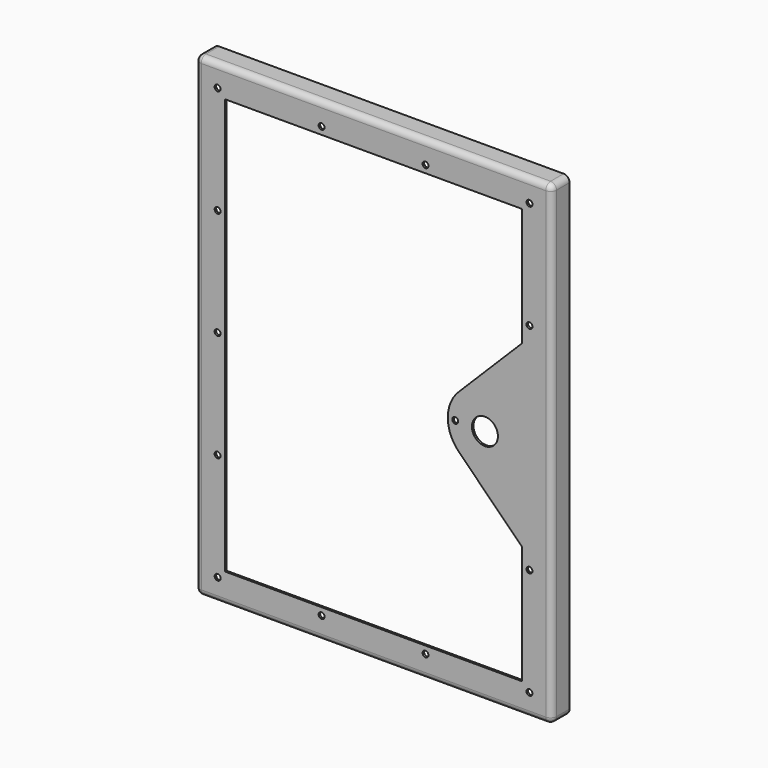
from build123d import *

# Parameters (mm, degrees)
F0_W     = 304.8
F0_H     = 406.4
F0_R     = 11.1125
F1_DEPTH = 1.651
F2_W     = 304.8
F2_H     = 406.4
F2_W_2   = 301.498
F2_H_2   = 403.098
F3_DEPTH = 19.05
F4_R     = 5.08
F5_R     = 5.08
F6_R     = 2.54
F7_DEPTH = 25.4


with BuildPart() as f1:
    # F0 (on Front) → F1 (new body)
    with BuildSketch(Plane.XZ):
        Rectangle(F0_W, F0_H)
        with BuildLine():
            Line((-127, 177.8), (127, 177.8))
            Line((127, 177.8), (127, 76.651281))
            Line((127, 76.651281), (72.79936, 22.45064))
            ThreePointArc((72.79936, 22.45064), (63.5, 0), (72.79936, -22.45064))
            Line((72.79936, -22.45064), (127, -76.651281))
            Line((127, -76.651281), (127, -177.8))
            Line((127, -177.8), (-127, -177.8))
            Line((-127, -177.8), (-127, 177.8))
        make_face(mode=Mode.SUBTRACT)
        with Locations((95.25, 0)):
            Circle(F0_R, mode=Mode.SUBTRACT)
    extrude(amount=F1_DEPTH)

    # F2 (on face) → F3 (join)
    with BuildSketch(Plane.XZ.offset(1.651)):
        Rectangle(F2_W, F2_H)
        Rectangle(F2_W_2, F2_H_2, mode=Mode.SUBTRACT)
    extrude(amount=-F3_DEPTH)

    # F4
    f4_edges = [f1.edges().sort_by_distance(p)[0] for p in [
        (-150.749, 0, 0),
        (0, 0, 201.549),
        (150.749, 0, 0),
        (0, 0, -201.549),
        (-150.749, 8.6995, -201.549),
        (-150.749, 8.6995, 201.549),
        (150.749, 8.6995, 201.549),
        (150.749, 8.6995, -201.549),
    ]]
    fillet(f4_edges, radius=F4_R)

    # F5
    f5_edges = [f1.edges().sort_by_distance(p)[0] for p in [
        (-152.4, 7.874, 203.2),
        (0, -1.651, 203.2),
        (-152.4, -1.651, 0),
        (152.4, 7.874, 203.2),
        (152.4, -1.651, 0),
        (152.4, 7.874, -203.2),
        (0, -1.651, -203.2),
        (-152.4, 7.874, -203.2),
    ]]
    fillet(f5_edges, radius=F5_R)

    # F6 (on face) → F7 (cut)
    with BuildSketch(Plane.XZ.offset(1.651)):
        with Locations((-133.35, 184.15)):
            Circle(F6_R)
        with Locations((-133.35, 92.075)):
            Circle(F6_R)
        with Locations((-133.35, 0)):
            Circle(F6_R)
        with Locations((-133.35, -92.075)):
            Circle(F6_R)
        with Locations((-133.35, -184.15)):
            Circle(F6_R)
        with Locations((-44.45, 184.15)):
            Circle(F6_R)
        with Locations((44.45, 184.15)):
            Circle(F6_R)
        with Locations((133.35, 184.15)):
            Circle(F6_R)
        with Locations((133.35, 92.075)):
            Circle(F6_R)
        with Locations((133.35, -92.075)):
            Circle(F6_R)
        with Locations((133.35, -184.15)):
            Circle(F6_R)
        with Locations((44.45, -184.15)):
            Circle(F6_R)
        with Locations((-44.45, -184.15)):
            Circle(F6_R)
        with Locations((69.85, 0)):
            Circle(F6_R)
    extrude(amount=-F7_DEPTH, mode=Mode.SUBTRACT)


solid = f1.part
